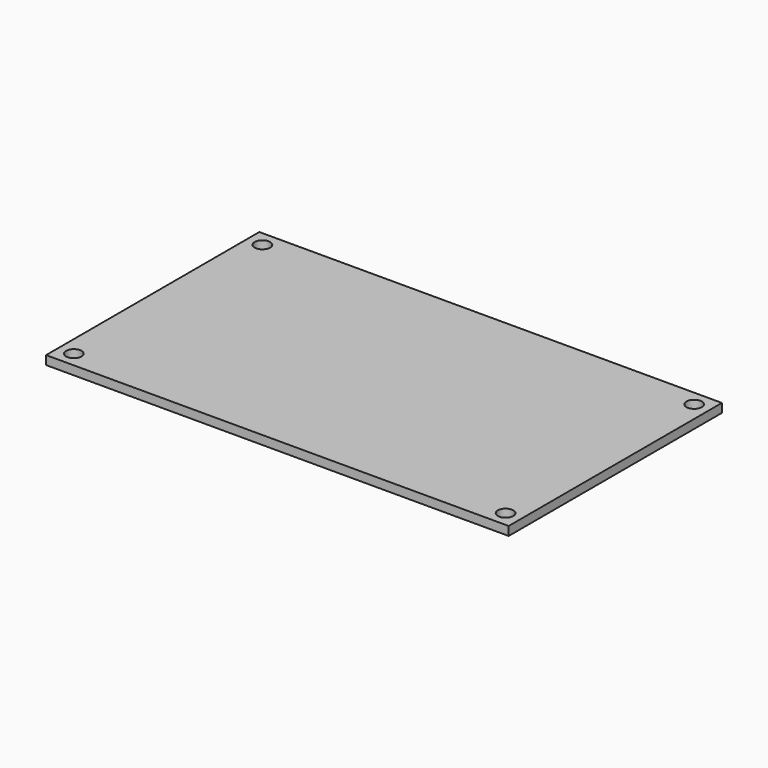
from build123d import *

# Parameters (mm, degrees)
SKETCH_W        = 105
SKETCH_H        = 60.5
PAD_DEPTH       = 2
SKETCH001_W     = 100
SKETCH001_H     = 55.5
PAD001_DEPTH    = 1
SKETCH002_R     = 3.5
POCKET_DEPTH    = 1
SKETCH003_R     = 1.75
POCKET001_DEPTH = 3.001


with BuildPart() as part:
    # Sketch → Pad (new body)
    with BuildSketch(Plane.XY):
        with Locations((52.5, 30.25)):
            Rectangle(SKETCH_W, SKETCH_H)
    extrude(amount=PAD_DEPTH)

    # Sketch001 → Pad001 (new body)
    with BuildSketch(Plane(origin=(0, 0, 0), x_dir=(1, 0, 0), z_dir=(0, 0, -1))):
        with Locations((52.5, -30.25)):
            Rectangle(SKETCH001_W, SKETCH001_H)
    extrude(amount=PAD001_DEPTH)

    # Sketch002 → Pocket (cut)
    with BuildSketch(Plane(origin=(0, 0, -1), x_dir=(1, 0, 0), z_dir=(0, 0, -1))):
        with Locations((3.5, -3.5)):
            Circle(SKETCH002_R)
        with Locations((3.5, -57)):
            Circle(SKETCH002_R)
        with Locations((101.5, -3.5)):
            Circle(SKETCH002_R)
        with Locations((101.5, -57)):
            Circle(SKETCH002_R)
    extrude(amount=-POCKET_DEPTH, mode=Mode.SUBTRACT)

    # Sketch003 → Pocket001 (cut, through all)
    with BuildSketch(Plane.XY.offset(2)):
        with Locations((3.5, 57)):
            Circle(SKETCH003_R)
        with Locations((101.5, 57)):
            Circle(SKETCH003_R)
        with Locations((3.5, 3.5)):
            Circle(SKETCH003_R)
        with Locations((101.5, 3.5)):
            Circle(SKETCH003_R)
    extrude(amount=-POCKET001_DEPTH, mode=Mode.SUBTRACT)


solid = part.part
